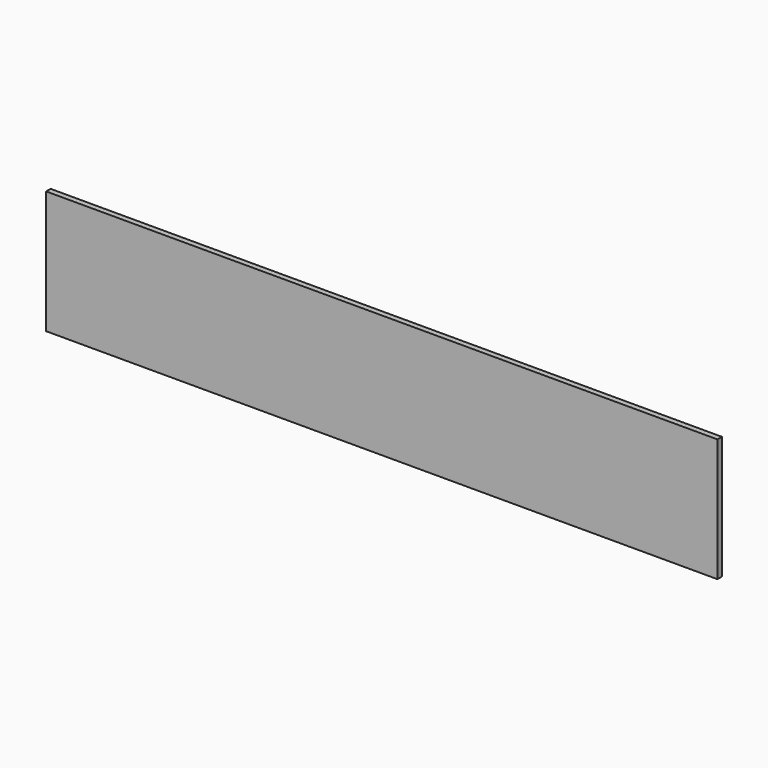
from build123d import *

# Parameters (mm, degrees)
F0_W     = 1200
F0_H     = 10
F1_DEPTH = 10


with BuildPart() as f1:
    # F0 (on Front) → F1 (new body)
    with BuildSketch(Plane.XZ):
        with Locations((0, -105)):
            Rectangle(F0_W, F0_H)
        Polygon((168.172628, 110), (168.172628, 100), (600, 100), (600, 110), (500, 110), align=None)
        Polygon((-600, 110), (-600, 100), (52.431464, 100), (52.431464, 110), (-500, 110), align=None)
        Polygon((52.431464, 110), (52.431464, 100), (168.172628, 100), (168.172628, 110), (167.431464, 110), (152.431464, 110), align=None)
        Polygon((52.431464, 100), (-600, 100), (-600, -100), (600, -100), (600, 100), (168.172628, 100), align=None)
    extrude(amount=F1_DEPTH)


solid = f1.part
